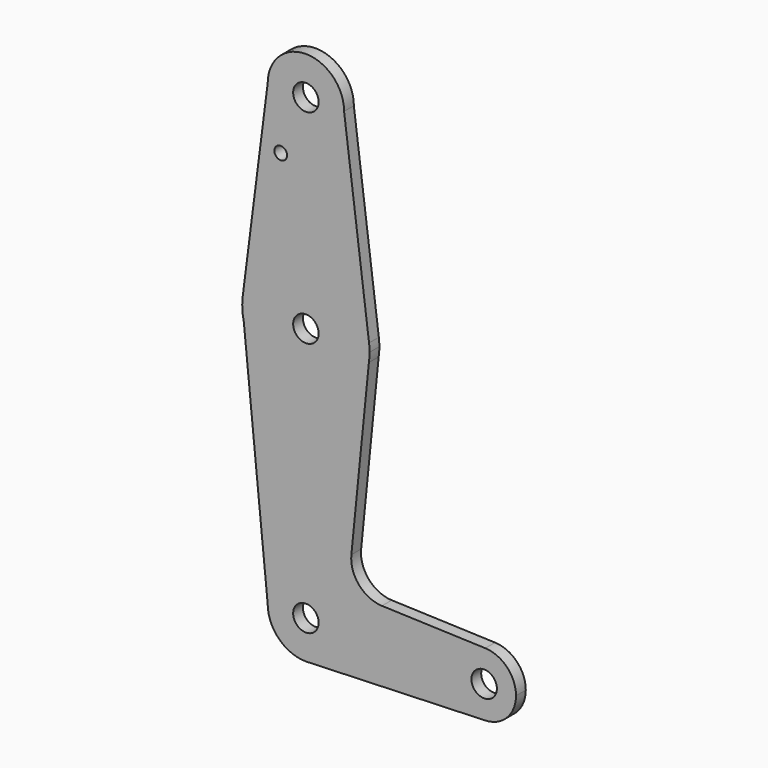
from build123d import *

# Parameters (mm, degrees)
F0_R     = 3.175
F0_R_2   = 1.5875
F1_DEPTH = 3.048


with BuildPart() as f1:
    # F0 (on Front) → F1 (new body)
    with BuildSketch(Plane.XZ):
        with BuildLine():
            ThreePointArc((-9.525, 114.3), (0, 104.775), (9.525, 114.3))
            ThreePointArc((9.525, 114.3), (0, 123.825), (-9.525, 114.3))
        make_face()
        with Locations((0, 114.3)):
            Circle(F0_R, mode=Mode.SUBTRACT)
        with BuildLine():
            Line((15.747457, 65.508289), (9.525, 114.3))
            ThreePointArc((9.525, 114.3), (0, 104.775), (-9.525, 114.3))
            Line((-9.525, 114.3), (-15.747457, 65.508289))
            ThreePointArc((-15.747457, 65.508289), (0, 79.375), (15.747457, 65.508289))
        make_face()
        with Locations((-6.273288, 100.0252)):
            Circle(F0_R_2, mode=Mode.SUBTRACT)
        with BuildLine():
            ThreePointArc((15.875, 63.5), (15.843082, 64.506168), (15.747457, 65.508289))
            ThreePointArc((15.747457, 65.508289), (0, 79.375), (-15.747457, 65.508289))
            ThreePointArc((-15.747457, 65.508289), (-15.855748, 62.718422), (-15.473606, 59.952729))
            ThreePointArc((-15.473606, 59.952729), (0.634532, 47.637686), (15.70751, 61.200052))
            ThreePointArc((15.70751, 61.200052), (15.833072, 62.346981), (15.875, 63.5))
        make_face()
        with Locations((0, 63.5)):
            Circle(F0_R, mode=Mode.SUBTRACT)
        with BuildLine():
            ThreePointArc((15.70751, 61.200052), (0.634532, 47.637686), (-15.473606, 59.952729))
            Line((-15.473606, 59.952729), (-9.525, 0))
            ThreePointArc((-9.525, 0), (0, 9.525), (9.525, 0))
            ThreePointArc((9.525, 0), (6.970557, -6.491299), (0.677344, -9.500886))
            Line((0.677344, -9.500886), (44.732405, -7.932475))
            ThreePointArc((44.732405, -7.932475), (36.5125, 0), (44.732405, 7.932475))
            Line((44.732405, 7.932475), (18.963479, 8.849878))
            ThreePointArc((18.963479, 8.849878), (13.257034, 11.566857), (11.335781, 17.588009))
            Line((11.335781, 17.588009), (15.70751, 61.200052))
        make_face()
        with BuildLine():
            ThreePointArc((9.525, 0), (0, 9.525), (-9.525, 0))
            ThreePointArc((-9.525, 0), (-6.735192, -6.735192), (0, -9.525))
            Line((0, -9.525), (0.677344, -9.500886))
            ThreePointArc((0.677344, -9.500886), (6.970557, -6.491299), (9.525, 0))
        make_face()
        Circle(F0_R, mode=Mode.SUBTRACT)
        with BuildLine():
            Line((0.677344, -9.500886), (0, -9.525))
            ThreePointArc((0, -9.525), (0.338886, -9.51897), (0.677344, -9.500886))
        make_face()
        with BuildLine():
            ThreePointArc((52.3875, 0), (50.161633, 5.51191), (44.732405, 7.932475))
            ThreePointArc((44.732405, 7.932475), (36.5125, 0), (44.732405, -7.932475))
            ThreePointArc((44.732405, -7.932475), (50.161633, -5.51191), (52.3875, 0))
        make_face()
        with Locations((44.45, 0)):
            Circle(F0_R, mode=Mode.SUBTRACT)
    extrude(amount=F1_DEPTH)


solid = f1.part
